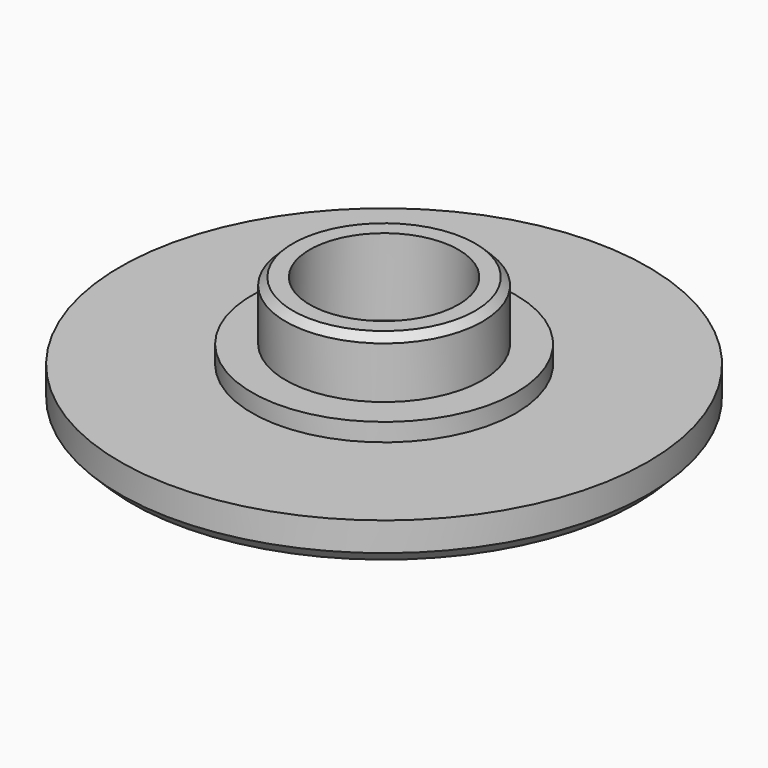
from build123d import *

# Parameters (mm, degrees)
F0_R     = 5.5
F0_R_2   = 4.1
F1_DEPTH = 0.75
F0_R_3   = 11
F0_R_4   = 3.1
F2_DEPTH = 1.7
F3_DEPTH = 3.2
F4_SIZE  = 0.5
F5_SIZE  = 0.3


with BuildPart() as f1:
    # F0 (on Top) → F1 (new body)
    with BuildSketch(Plane.XY):
        Circle(F0_R)
        Circle(F0_R_2, mode=Mode.SUBTRACT)
    extrude(amount=F1_DEPTH)

    # F0 (on Top) → F2 (join)
    with BuildSketch(Plane.XY):
        Circle(F0_R_3)
        Circle(F0_R, mode=Mode.SUBTRACT)
        Circle(F0_R)
        Circle(F0_R_2, mode=Mode.SUBTRACT)
        Circle(F0_R_2)
        Circle(F0_R_4, mode=Mode.SUBTRACT)
        Circle(F0_R_4)
    extrude(amount=-F2_DEPTH)

    # F0 (on Top) → F3 (join)
    with BuildSketch(Plane.XY):
        Circle(F0_R_2)
        Circle(F0_R_4, mode=Mode.SUBTRACT)
    extrude(amount=F3_DEPTH)

    # F4
    f4_edges = [f1.edges().sort_by_distance(p)[0] for p in [
        (-11, 0, -1.7),
    ]]
    chamfer(f4_edges, length=F4_SIZE)

    # F5
    f5_edges = [f1.edges().sort_by_distance(p)[0] for p in [
        (-4.1, 0, 3.2),
    ]]
    chamfer(f5_edges, length=F5_SIZE)


solid = f1.part
